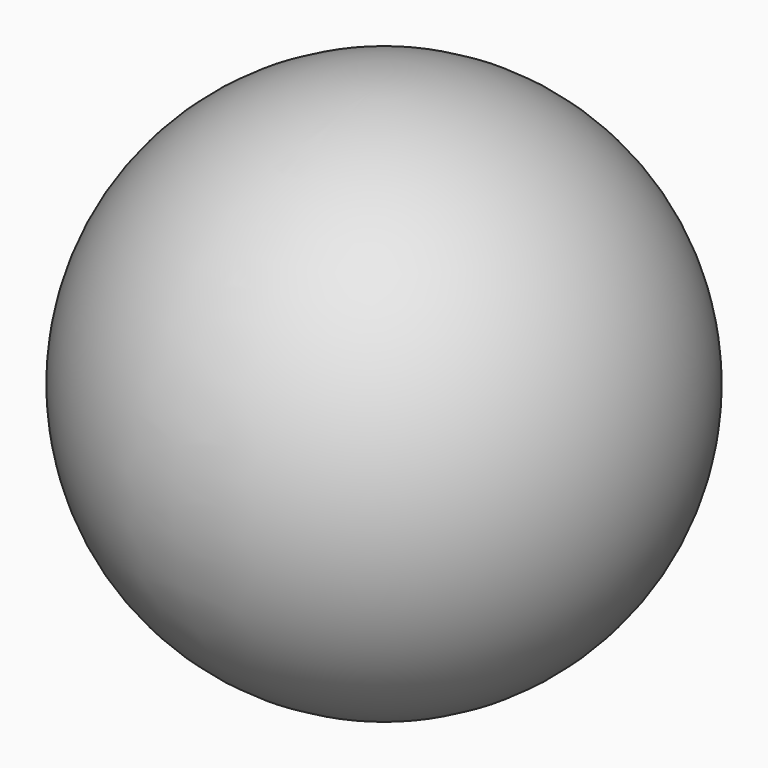
from build123d import *


with BuildPart() as f1:
    # F0 (on Right) → F1 (revolve)
    with BuildSketch(Plane.YZ):
        with BuildLine():
            Line((0, -69.845113), (0, 65.273113))
            ThreePointArc((0, 65.273113), (-67.559113, -2.286), (0, -69.845113))
        make_face()
    revolve(axis=Axis((0, 0, -2.286), (0, 0, -1)))


solid = f1.part
